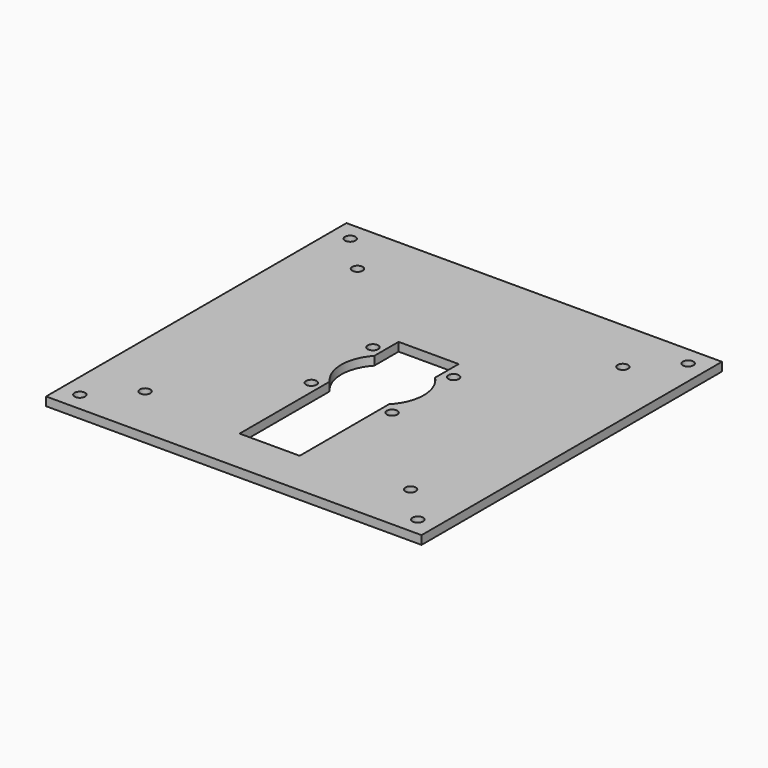
from build123d import *

# Parameters (mm, degrees)
F0_W     = 127
F0_H     = 127
F0_R     = 1.778
F1_DEPTH = 2.921


with BuildPart() as f1:
    # F0 (on Top) → F1 (new body)
    with BuildSketch(Plane.XY):
        with Locations((63.5, 63.5)):
            Rectangle(F0_W, F0_H)
        with Locations((6.35, 6.35)):
            Circle(F0_R, mode=Mode.SUBTRACT)
        with Locations((18.598719, 18.598719)):
            Circle(F0_R, mode=Mode.SUBTRACT)
        with Locations((49.8475, 49.8475)):
            Circle(F0_R, mode=Mode.SUBTRACT)
        with Locations((120.65, 6.35)):
            Circle(F0_R, mode=Mode.SUBTRACT)
        with Locations((108.401281, 18.598719)):
            Circle(F0_R, mode=Mode.SUBTRACT)
        with BuildLine():
            Line((53.192581, 72.294635), (53.192581, 82.55))
            Line((53.192581, 82.55), (73.512581, 82.55))
            Line((73.512581, 82.55), (73.512581, 72.607131))
            ThreePointArc((73.512581, 72.607131), (76.442887, 68.12262), (77.47, 62.865))
            ThreePointArc((77.47, 62.865), (76.442887, 57.60738), (73.512581, 53.122869))
            Line((73.512581, 53.122869), (73.512581, 15.335365))
            Line((73.512581, 15.335365), (53.192581, 15.335365))
            Line((53.192581, 15.335365), (53.192581, 53.435365))
            ThreePointArc((53.192581, 53.435365), (49.53, 62.865), (53.192581, 72.294635))
        make_face(mode=Mode.SUBTRACT)
        with Locations((77.1525, 49.8475)):
            Circle(F0_R, mode=Mode.SUBTRACT)
        with Locations((49.8475, 75.8825)):
            Circle(F0_R, mode=Mode.SUBTRACT)
        with Locations((18.598719, 108.401281)):
            Circle(F0_R, mode=Mode.SUBTRACT)
        with Locations((6.35, 120.65)):
            Circle(F0_R, mode=Mode.SUBTRACT)
        with Locations((77.1525, 75.8825)):
            Circle(F0_R, mode=Mode.SUBTRACT)
        with Locations((108.401281, 108.401281)):
            Circle(F0_R, mode=Mode.SUBTRACT)
        with Locations((120.65, 120.65)):
            Circle(F0_R, mode=Mode.SUBTRACT)
    extrude(amount=F1_DEPTH)


solid = f1.part
